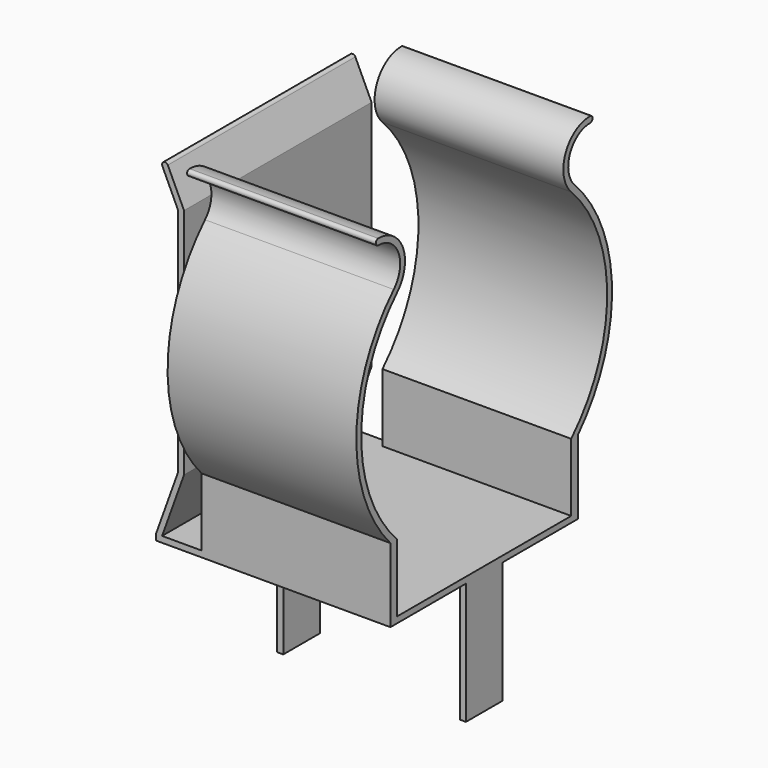
from build123d import *

# Parameters (mm, degrees)
PAD_DEPTH    = 6.2
SKETCH001_W  = 7.7
SKETCH001_H  = 0.2
PAD001_DEPTH = 1.5
PAD002_DEPTH = 3.85
SKETCH003_W  = 0.2
SKETCH003_H  = 4
PAD003_DEPTH = 0.75


with BuildPart() as part:
    # Sketch → Pad (new body)
    with BuildSketch(Plane.YZ):
        with BuildLine():
            ThreePointArc((-3.572464, 9.569314), (-5.05, 6), (-3.572464, 2.430686))
            Line((-3.572464, 0.2), (-3.572464, 2.430686))
            Line((3.572464, 0.2), (-3.572464, 0.2))
            Line((3.572464, 2.430686), (3.572464, 0.2))
            ThreePointArc((3.572464, 2.430686), (5.05, 6), (3.572464, 9.569314))
            ThreePointArc((4.350625, 11.446788), (3.33445, 10.767964), (3.572464, 9.569314))
            ThreePointArc((4.350625, 11.246788), (4.450625, 11.346788), (4.350625, 11.446788))
            ThreePointArc((4.350625, 11.246788), (3.519209, 10.691386), (3.713948, 9.710673))
            ThreePointArc((3.85, 2.430686), (5.249083, 6.098098), (3.713948, 9.710673))
            Line((3.85, 2.430686), (3.85, 0))
            Line((-3.85, 0), (3.85, 0))
            Line((-3.85, 2.430686), (-3.85, 0))
            ThreePointArc((-3.713948, 9.710673), (-5.249083, 6.098098), (-3.85, 2.430686))
            ThreePointArc((-3.713948, 9.710673), (-3.519209, 10.691387), (-4.350626, 11.246788))
            ThreePointArc((-4.350626, 11.446788), (-4.450626, 11.346788), (-4.350626, 11.246788))
            ThreePointArc((-3.572464, 9.569314), (-3.33445, 10.767964), (-4.350626, 11.446788))
        make_face()
    extrude(amount=PAD_DEPTH)

    # Sketch001 → Pad001 (join)
    with BuildSketch(Plane.YZ):
        with Locations((0, 0.1)):
            Rectangle(SKETCH001_W, SKETCH001_H)
    extrude(amount=-PAD001_DEPTH)

    # Sketch002 → Pad002 (join, symmetric)
    with BuildSketch(Plane.XZ):
        with BuildLine():
            Line((-1.5, 0.2), (-0.78, 2.2))
            Line((-0.78, 2.2), (-0.78, 9.8))
            Line((-0.78, 9.8), (-1.292938, 10.9))
            ThreePointArc((-1.111677, 10.984524), (-1.244569, 11.032893), (-1.292938, 10.9))
            Line((-0.58, 9.844339), (-1.111677, 10.984524))
            Line((-0.58, 2.2), (-0.58, 9.844339))
            Line((-1.3, 0.2), (-0.58, 2.2))
            Line((-1.3, 0), (-1.3, 0.2))
            Line((-1.5, 0), (-1.3, 0))
            Line((-1.5, 0.2), (-1.5, 0))
        make_face()
    extrude(amount=PAD002_DEPTH, both=True)

    # Sketch003 → Pad003 (join, symmetric)
    with BuildSketch(Plane.XZ):
        with Locations((0.1, -2)):
            Rectangle(SKETCH003_W, SKETCH003_H)
        with Locations((6.1, -2)):
            Rectangle(SKETCH003_W, SKETCH003_H)
    extrude(amount=PAD003_DEPTH, both=True)


solid = part.part
